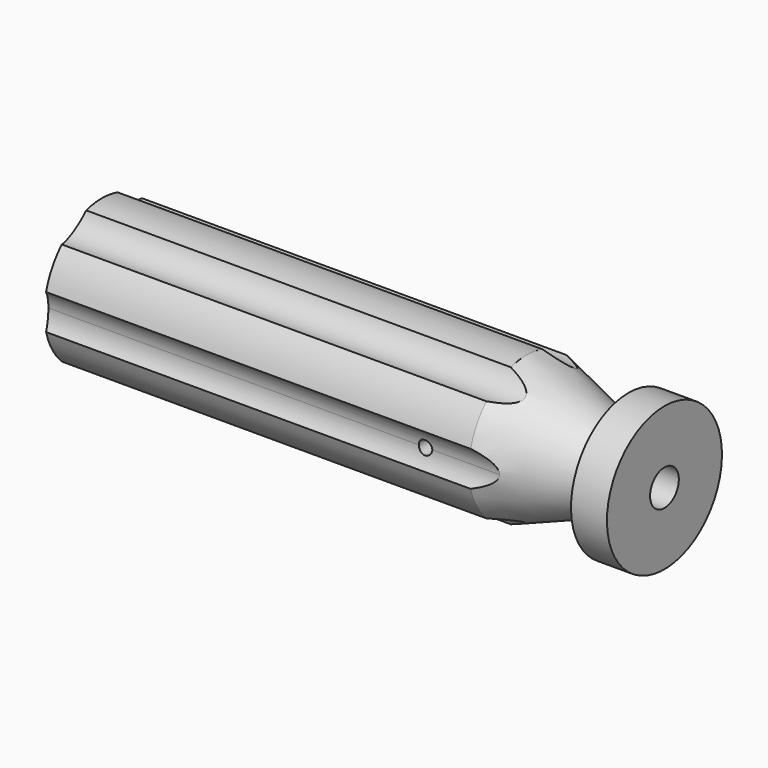
from build123d import *

# Parameters (mm, degrees)
F4_START = -7.62
F4_DEPTH = 93.981
F5_R     = 1.1938
F6_DEPTH = 12.7


with BuildPart() as f1:
    # F0 (on Front) → F1 (revolve)
    with BuildSketch(Plane.XZ):
        with BuildLine():
            Line((-40.64, 3.175), (0, 3.175))
            Line((0, 3.175), (0, 12.7))
            Line((0, 12.7), (-6.35, 12.7))
            Line((-6.35, 12.7), (-6.35, 9.7636567324))
            ThreePointArc((-6.35, 9.7636567324), (-7.4331158517, 7.6830105399), (-9.758731164, 7.3768374756))
            Line((-9.758731164, 7.3768374756), (-24.384, 12.7))
            Line((-24.384, 12.7), (-99.4210244843, 12.7))
            ThreePointArc((-99.4210244843, 12.7), (-101.0513051228, 6.4427853895), (-101.6, 0))
            Line((-101.6, 0), (-40.64, 0))
            Line((-40.64, 0), (-40.64, 3.175))
        make_face()
    revolve(axis=Axis((-71.12, 0, 0), (-1, 0, 0)))

    # F2 (on Right) → F4 (cut)
    with BuildSketch(Plane.YZ.offset(F4_START)):
        with BuildLine():
            ThreePointArc((-3.175, 13.8581385114), (-3.2583413998, 14.751147695), (-3.5054871123, 15.6133136811))
            ThreePointArc((-3.5054871123, 15.6133136811), (-8.001, 13.8581385114), (-11.768782729, 10.8424977325))
            ThreePointArc((-11.768782729, 10.8424977325), (-6.4030393387, 9.3043710903), (-3.175, 13.8581385114))
        make_face()
        with BuildLine():
            ThreePointArc((3.5054871123, 15.6133136811), (5.588, 9.6786999127), (11.768782729, 10.8424977325))
            ThreePointArc((11.768782729, 10.8424977325), (8.001, 13.8581385114), (3.5054871123, 15.6133136811))
        make_face()
        with BuildLine():
            ThreePointArc((15.2742698413, -4.7708159487), (15.8190213035, -2.413), (16.002, 0))
            ThreePointArc((16.002, 0), (15.8190213035, 2.413), (15.2742698413, 4.7708159487))
            ThreePointArc((15.2742698413, 4.7708159487), (11.176, 0), (15.2742698413, -4.7708159487))
        make_face()
        with BuildLine():
            ThreePointArc((3.5054871123, -15.6133136811), (8.001, -13.8581385114), (11.768782729, -10.8424977325))
            ThreePointArc((11.768782729, -10.8424977325), (5.588, -9.6786999127), (3.5054871123, -15.6133136811))
        make_face()
        with BuildLine():
            ThreePointArc((-11.768782729, -10.8424977325), (-8.001, -13.8581385114), (-3.5054871123, -15.6133136811))
            ThreePointArc((-3.5054871123, -15.6133136811), (-3.2583413998, -14.751147695), (-3.175, -13.8581385114))
            ThreePointArc((-3.175, -13.8581385114), (-6.4030393387, -9.3043710903), (-11.768782729, -10.8424977325))
        make_face()
        with BuildLine():
            ThreePointArc((-11.176, 0), (-12.3412417626, 3.1446979389), (-15.2742698413, 4.7708159487))
            ThreePointArc((-15.2742698413, 4.7708159487), (-16.002, 0), (-15.2742698413, -4.7708159487))
            ThreePointArc((-15.2742698413, -4.7708159487), (-12.3412417626, -3.1446979389), (-11.176, 0))
        make_face()
    extrude(amount=-F4_DEPTH, mode=Mode.SUBTRACT)

    # F5 (on Front) → F6 (cut, symmetric)
    with BuildSketch(Plane.XZ):
        with Locations((-33.274, 0)):
            Circle(F5_R)
    extrude(amount=F6_DEPTH, both=True, mode=Mode.SUBTRACT)


solid = f1.part
